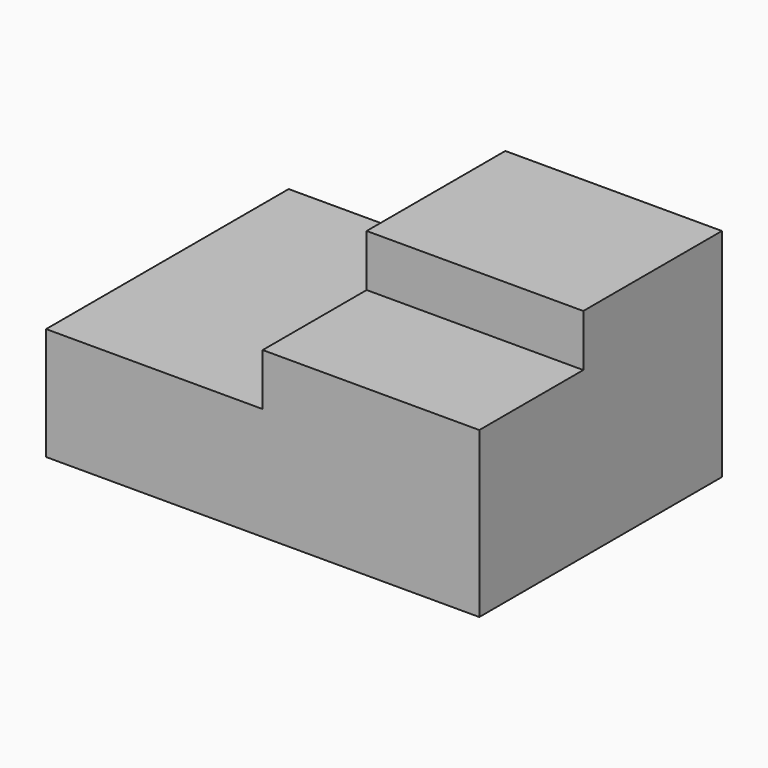
from build123d import *

# Parameters (mm, degrees)
F1_DEPTH = 762
F2_W     = 1270
F2_H     = 304.8
F3_DEPTH = 1016


with BuildPart() as f1:
    # F0 (on Front) → F1 (new body)
    with BuildSketch(Plane.XZ):
        Polygon((-1127.099395, 632.979308), (-1127.099395, -27.420692), (1412.900605, -27.420692), (1412.900605, 937.779308), (142.900605, 937.779308), (142.900605, 632.979308), align=None)
    extrude(amount=-F1_DEPTH)

    # F2 (on face) → F3 (join)
    with BuildSketch(Plane(origin=(0, 762, 0), x_dir=(-1, 0, 0), z_dir=(0, 1, 0))):
        with Locations((-777.900605, 1090.179308)):
            Rectangle(F2_W, F2_H)
        Polygon((-142.900605, 632.979308), (-142.900605, 937.779308), (-1412.900605, 937.779308), (-1412.900605, -27.420692), (1127.099395, -27.420692), (1127.099395, 632.979308), align=None)
    extrude(amount=F3_DEPTH)


solid = f1.part
